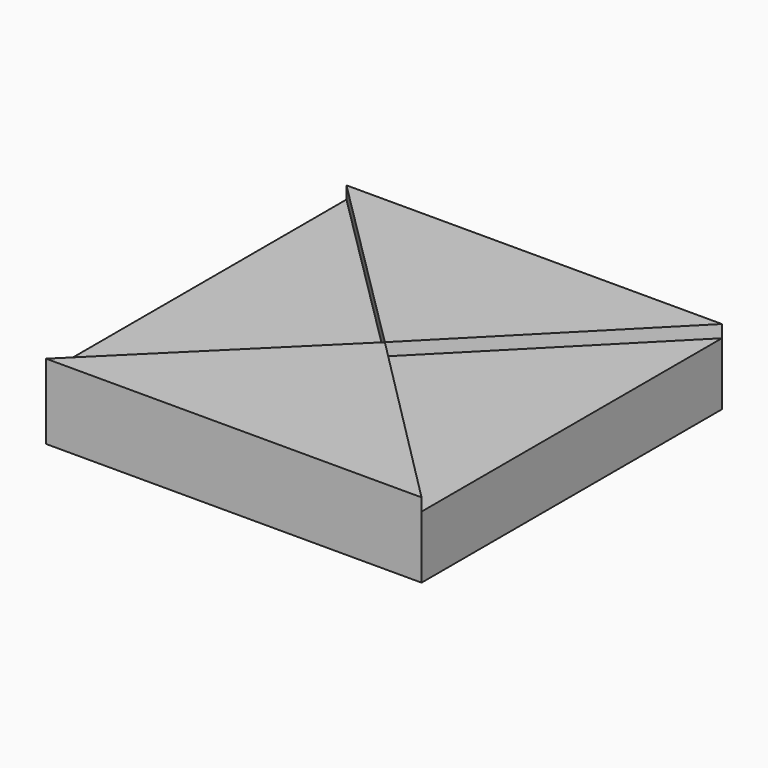
from build123d import *

# Parameters (mm, degrees)
F1_DEPTH = 30
F2_DEPTH = 30
F3_DEPTH = 25
F4_DEPTH = 25


with BuildPart() as f1:
    # F0 (on Top) → F1 (new body)
    with BuildSketch(Plane.XY):
        Polygon((0, 0), (-75.564269, -74.718927), (74.435731, -74.718927), align=None)
    extrude(amount=F1_DEPTH)


with BuildPart() as f2:
    # F0 (on Top) → F2 (new body)
    with BuildSketch(Plane.XY):
        Polygon((74.435731, 75.281073), (-75.564269, 75.281073), (0, 0), align=None)
    extrude(amount=F2_DEPTH)


with BuildPart() as f3:
    # F0 (on Top) → F3 (new body)
    with BuildSketch(Plane.XY):
        Polygon((0, 0), (-75.564269, 75.281073), (-75.564269, -74.718927), align=None)
    extrude(amount=F3_DEPTH)


with BuildPart() as f4:
    # F0 (on Top) → F4 (new body)
    with BuildSketch(Plane.XY):
        Polygon((74.435731, -74.718927), (74.435731, 75.281073), (0, 0), align=None)
    extrude(amount=F4_DEPTH)


solid = Compound([f1.part, f2.part, f3.part, f4.part])
